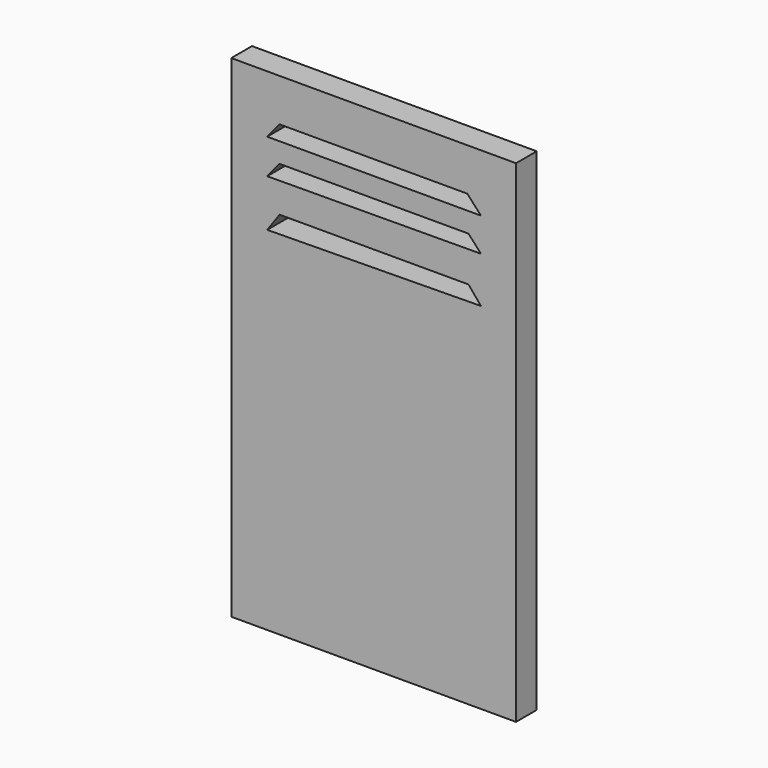
from build123d import *

# Parameters (mm, degrees)
F0_W     = 279.4
F0_H     = 482.6
F1_DEPTH = 25.4


with BuildPart() as f1:
    # F0 (on Front) → F1 (new body)
    with BuildSketch(Plane.XZ):
        with Locations((-7.53355, 189.055836)):
            Rectangle(F0_W, F0_H)
        Polygon((85.546643, 310.481846), (97.740047, 295.849741), (-111.98657, 293.411076), (-99.793166, 310.481846), align=None, mode=Mode.SUBTRACT)
        Polygon((85.546643, 354.378104), (97.740047, 340.96536), (-111.98657, 339.746028), (-99.793166, 354.378104), align=None, mode=Mode.SUBTRACT)
        Polygon((-111.98657, 373.887569), (-99.793166, 388.519645), (84.327303, 388.519645), (97.740047, 373.887569), align=None, mode=Mode.SUBTRACT)
    extrude(amount=F1_DEPTH)


solid = f1.part
